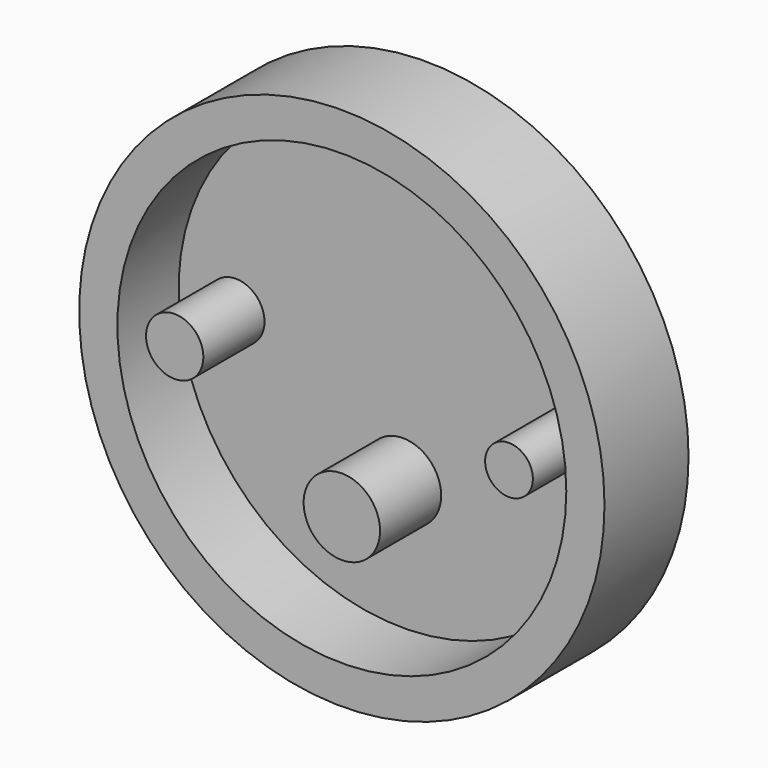
from build123d import *

# Parameters (mm, degrees)
F0_R     = 27.5
F1_DEPTH = 11
F2_R     = 23.5
F3_DEPTH = 8
F4_R     = 4
F4_R_2   = 3
F4_R_3   = 2.5
F5_DEPTH = 8


with BuildPart() as f1:
    # F0 (on Front) → F1 (new body)
    with BuildSketch(Plane.XZ):
        Circle(F0_R)
    extrude(amount=F1_DEPTH)

    # F2 (on face) → F3 (cut)
    with BuildSketch(Plane.XZ.offset(11)):
        Circle(F2_R)
    extrude(amount=-F3_DEPTH, mode=Mode.SUBTRACT)

    # F4 (on face) → F5 (join)
    with BuildSketch(Plane.XZ.offset(3)):
        with Locations((0, -10)):
            Circle(F4_R)
        with Locations((-17.5, 0)):
            Circle(F4_R_2)
        with Locations((17.5, 0)):
            Circle(F4_R_3)
    extrude(amount=F5_DEPTH)


solid = f1.part
